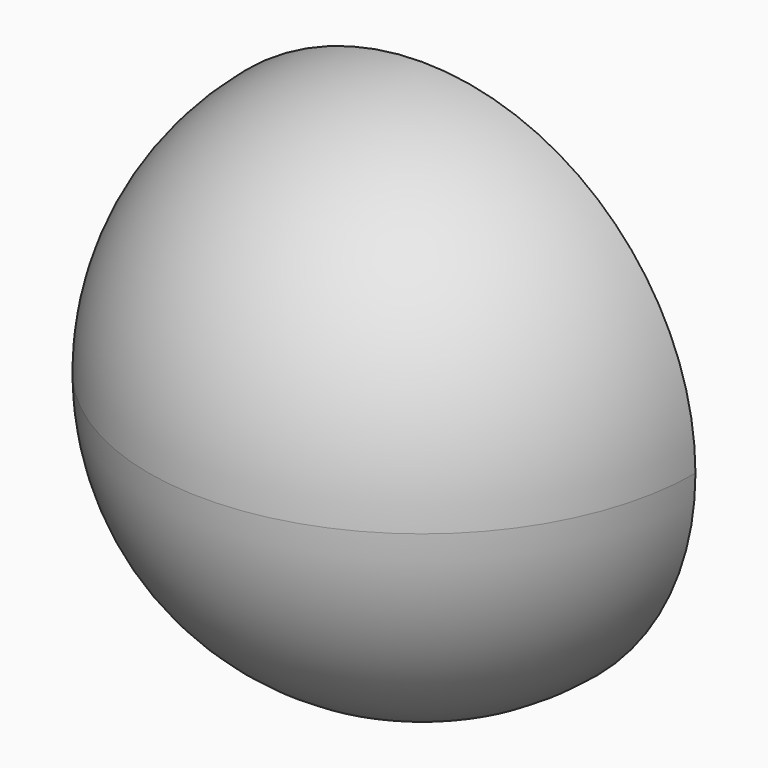
from build123d import *

# Parameters (mm, degrees)
F1_ANGLE = 180
F2_T     = -2.54


with BuildPart() as f1:
    # F0 (on Front) → F1 (revolve)
    with BuildSketch(Plane.XZ):
        with BuildLine():
            ThreePointArc((0, -37.6815115579), (26.6448523479, -26.6448523479), (37.6815115579, 0))
            ThreePointArc((37.6815115579, 0), (26.6448523479, 26.6448523479), (0, 37.6815115579))
            Line((0, 37.6815115579), (0, -37.6815115579))
        make_face()
    revolve(axis=Axis((0, 0, 0), (0, 0, -1)), revolution_arc=F1_ANGLE)

    # F2
    f2_openings = [f1.faces().sort_by_distance(p)[0] for p in [
        (0, 0, 0),
    ]]
    offset(amount=F2_T, openings=f2_openings)


solid = f1.part
